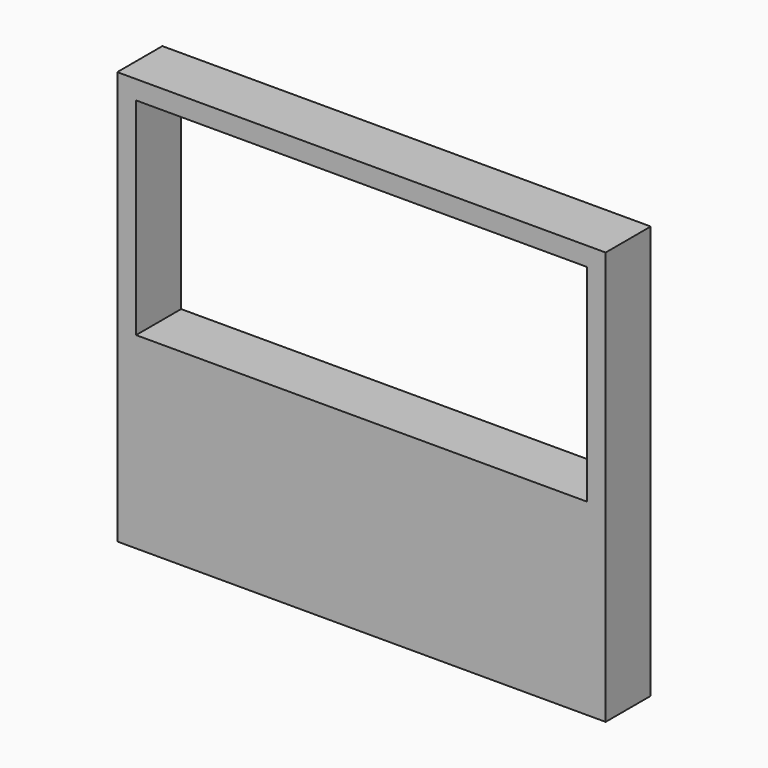
from build123d import *

# Parameters (mm, degrees)
F0_W     = 304.8
F0_H     = 12.7
F1_DEPTH = 38.1


with BuildPart() as f1:
    # F0 (on Front) → F1 (new body)
    with BuildSketch(Plane.XZ):
        Polygon((254.162936, 128.825554), (241.462936, 128.825554), (241.462936, 116.125554), (241.462936, -23.574446), (254.162936, -23.574446), align=None)
        Polygon((-63.337064, -23.574446), (-76.037064, -23.574446), (-76.037064, -150.574446), (254.162936, -150.574446), (254.162936, -23.574446), (241.462936, -23.574446), align=None)
        with Locations((89.062936, 122.475554)):
            Rectangle(F0_W, F0_H)
        Polygon((-63.337064, 128.825554), (-76.037064, 128.825554), (-76.037064, -23.574446), (-63.337064, -23.574446), (-63.337064, 116.125554), align=None)
    extrude(amount=F1_DEPTH)


solid = f1.part
